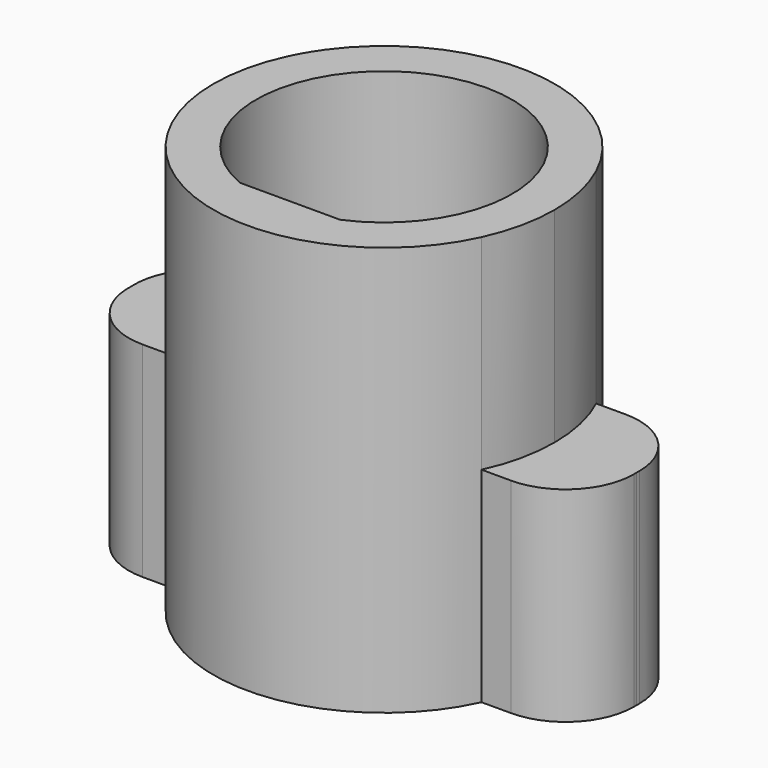
from build123d import *

# Parameters (mm, degrees)
F1_DEPTH = 6
F2_DEPTH = 3


with BuildPart() as f1:
    # F0 (on Top) → F1 (new body)
    with BuildSketch(Plane.XY):
        with BuildLine():
            ThreePointArc((2.26881, -1.05), (2.441519, -0.537575), (2.5, 0))
            ThreePointArc((2.5, 0), (2.441519, 0.537575), (2.26881, 1.05))
            ThreePointArc((2.26881, 1.05), (0.240024, 2.488451), (-2.026294, 1.464286))
            ThreePointArc((-2.026294, 1.464286), (-2.157519, 1.262977), (-2.26881, 1.05))
            ThreePointArc((-2.26881, 1.05), (-2.5, 0), (-2.26881, -1.05))
            ThreePointArc((-2.26881, -1.05), (0, -2.5), (2.26881, -1.05))
        make_face()
        with BuildLine():
            ThreePointArc((-0.734847, -1.725), (0, 1.875), (0.734847, -1.725))
            Line((0.734847, -1.725), (-0.734847, -1.725))
        make_face(mode=Mode.SUBTRACT)
    extrude(amount=F1_DEPTH)

    # F0 (on Top) → F2 (join)
    with BuildSketch(Plane.XY):
        with BuildLine():
            ThreePointArc((2.26881, 1.05), (2.441519, 0.537575), (2.5, 0))
            ThreePointArc((2.5, 0), (2.441519, -0.537575), (2.26881, -1.05))
            Line((2.26881, -1.05), (2.7, -1.05))
            ThreePointArc((2.7, -1.05), (3.407107, -0.757107), (3.7, -0.05))
            ThreePointArc((3.7, -0.05), (3.699687, -0.024992), (3.698749, 0))
            ThreePointArc((3.698749, 0), (3.699687, 0.024992), (3.7, 0.05))
            ThreePointArc((3.7, 0.05), (3.407107, 0.757107), (2.7, 1.05))
            Line((2.7, 1.05), (2.26881, 1.05))
        make_face()
        with BuildLine():
            Line((-2.7, -1.05), (-2.26881, -1.05))
            ThreePointArc((-2.26881, -1.05), (-2.5, 0), (-2.26881, 1.05))
            Line((-2.26881, 1.05), (-2.7, 1.05))
            ThreePointArc((-2.7, 1.05), (-3.424569, 0.739202), (-3.698749, 0))
            ThreePointArc((-3.698749, 0), (-3.424569, -0.739202), (-2.7, -1.05))
        make_face()
    extrude(amount=F2_DEPTH)


solid = f1.part
